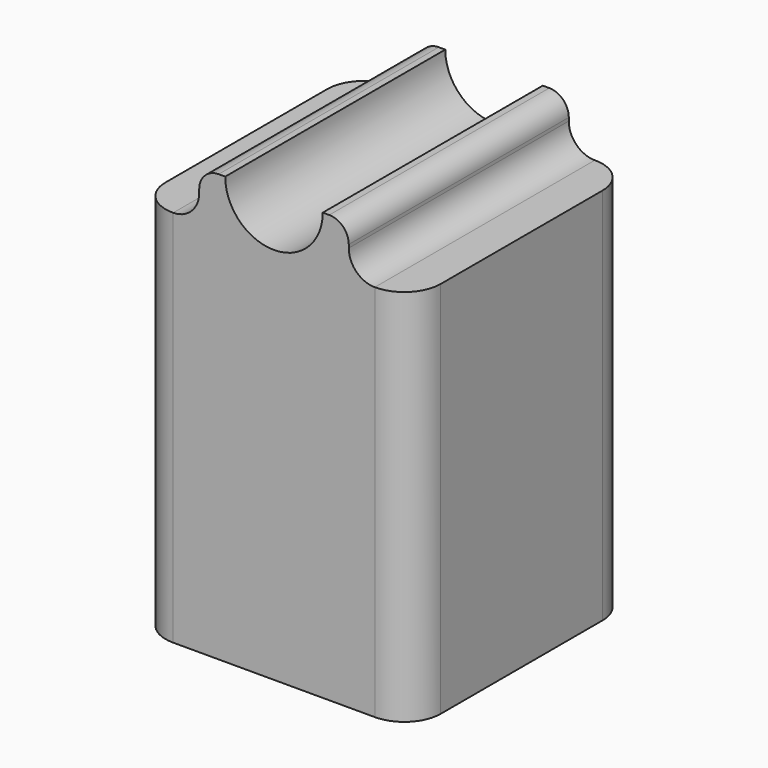
from build123d import *

# Parameters (mm, degrees)
SKETCH047_W     = 42.3
SKETCH047_H     = 42.3
SKETCH047_R     = 4
PAD021_DEPTH    = 12.7
SKETCH053_W     = 42.3
SKETCH053_H     = 42.3
SKETCH054_W     = 42.3
SKETCH054_H     = 42.3
SKETCH055_W     = 23
SKETCH055_H     = 42.3
PAD022_DEPTH    = 7.5
SKETCH056_R     = 7.5
POCKET008_DEPTH = 50
SKETCH048_R     = 2.75
POCKET009_DEPTH = 1
FILLET007_R     = 4
FILLET008_R     = 3
FILLET009_R     = 5.6


with BuildPart() as part:
    # Sketch047 (on Face1 of Binder017) → Pad021 (new body)
    with BuildSketch(Plane.XY.offset(-65.702215)):
        with Locations((-134, 0)):
            Rectangle(SKETCH047_W, SKETCH047_H)
        with Locations((-134, 0)):
            Circle(SKETCH047_R, mode=Mode.SUBTRACT)
    extrude(amount=PAD021_DEPTH)

    # Sketch053 → AdditiveLoft004 section 0
    with BuildSketch(Plane.XY.offset(-53.002215)):
        with Locations((-134, 0)):
            Rectangle(SKETCH053_W, SKETCH053_H)
    # Sketch054 (on DatumPlane) → AdditiveLoft004 section 1
    with BuildSketch(Plane.XY.offset(-7.5)):
        with Locations((-134, 0)):
            Rectangle(SKETCH054_W, SKETCH054_H)
    loft()

    # Sketch055 (on Face10 of AdditiveLoft004) → Pad022 (join)
    with BuildSketch(Plane.XY.offset(-7.5)):
        with Locations((-134, 0)):
            Rectangle(SKETCH055_W, SKETCH055_H)
    extrude(amount=PAD022_DEPTH)

    # Sketch056 (on Face18 of Pad022) → Pocket008 (cut)
    with BuildSketch(Plane.XZ.offset(21.15)):
        with Locations((-134, 0)):
            Circle(SKETCH056_R)
    extrude(amount=-POCKET008_DEPTH, mode=Mode.SUBTRACT)

    # Sketch048 (on Face1 of Binder017) → Pocket009 (cut)
    with BuildSketch(Plane.XY.offset(-65.702215)):
        with Locations((-149.5, -15.5)):
            Circle(SKETCH048_R)
        with Locations((-118.5, -15.5)):
            Circle(SKETCH048_R)
        with Locations((-118.5, 15.5)):
            Circle(SKETCH048_R)
        with Locations((-149.5, 15.5)):
            Circle(SKETCH048_R)
    extrude(amount=POCKET009_DEPTH, mode=Mode.SUBTRACT)

    # Fillet007
    fillet007_edges = [part.edges().sort_by_distance(p)[0] for p in [
        (-122.5, 0, -7.5),
        (-145.5, 0, -7.5),
    ]]
    fillet(fillet007_edges, radius=FILLET007_R)

    # Fillet008
    fillet008_edges = [part.edges().sort_by_distance(p)[0] for p in [
        (-122.5, 0, 0),
        (-145.5, 0, 0),
    ]]
    fillet(fillet008_edges, radius=FILLET008_R)

    # Fillet009
    fillet009_edges = [part.edges().sort_by_distance(p)[0] for p in [
        (-155.15, -21.15, -30.251107),
        (-155.15, -21.15, -59.352215),
        (-155.15, 21.15, -30.251107),
        (-155.15, 21.15, -59.352215),
        (-112.85, -21.15, -30.251107),
        (-112.85, -21.15, -59.352215),
        (-112.85, 21.15, -59.352215),
        (-112.85, 21.15, -30.251107),
    ]]
    fillet(fillet009_edges, radius=FILLET009_R)


solid = part.part
